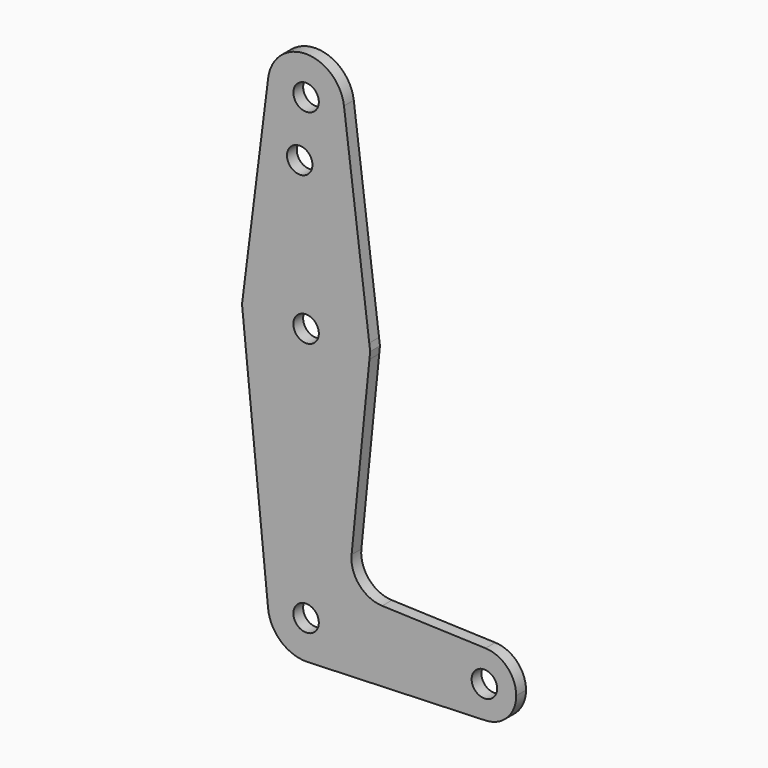
from build123d import *

# Parameters (mm, degrees)
F0_R     = 3.175
F1_DEPTH = 3.048


with BuildPart() as f1:
    # F0 (on Front) → F1 (new body)
    with BuildSketch(Plane.XZ):
        with BuildLine():
            ThreePointArc((-9.4502929642, 115.490625), (-0.596483242, 104.7936951058), (9.525, 114.3))
            ThreePointArc((9.525, 114.3), (9.5063048942, 114.896483242), (9.4502929642, 115.490625))
            ThreePointArc((9.4502929642, 115.490625), (0, 123.825), (-9.4502929642, 115.490625))
        make_face()
        with Locations((0, 114.3)):
            Circle(F0_R, mode=Mode.SUBTRACT)
        with BuildLine():
            ThreePointArc((9.4502929642, 115.490625), (9.5063048942, 114.896483242), (9.525, 114.3))
            ThreePointArc((9.525, 114.3), (-0.596483242, 104.7936951058), (-9.4502929642, 115.490625))
            Line((-9.4502929642, 115.490625), (-15.7504882475, 65.4843752081))
            ThreePointArc((-15.7504882475, 65.4843752081), (-1.474e-07, 79.375), (15.7504882106, 65.4843755006))
            Line((15.7504882106, 65.4843755006), (9.4502929642, 115.490625))
        make_face()
        with Locations((-1.5875, 99.9906848222)):
            Circle(F0_R, mode=Mode.SUBTRACT)
        with BuildLine():
            Line((15.9751747256, 63.7009815757), (15.7504882106, 65.4843755006))
            ThreePointArc((15.7504882106, 65.4843755006), (15.8438414746, 64.4941389884), (15.875, 63.5))
            ThreePointArc((15.875, 63.5), (15.8550939086, 62.7052534046), (15.7954255558, 61.9124999177))
            Line((15.7954255558, 61.9124999177), (15.9751747256, 63.7009815757))
        make_face()
        with BuildLine():
            ThreePointArc((15.875, 63.5), (15.8438414746, 64.4941389884), (15.7504882106, 65.4843755006))
            ThreePointArc((15.7504882106, 65.4843755006), (-1.474e-07, 79.375), (-15.7504882475, 65.4843752081))
            ThreePointArc((-15.7504882475, 65.4843752081), (-15.8737438142, 63.6997055839), (-15.7954255625, 61.9124999847))
            ThreePointArc((-15.7954255625, 61.9124999847), (-3.37e-08, 47.625), (15.7954255558, 61.9124999177))
            ThreePointArc((15.7954255558, 61.9124999177), (15.8550939086, 62.7052534046), (15.875, 63.5))
        make_face()
        with Locations((0, 63.5)):
            Circle(F0_R, mode=Mode.SUBTRACT)
        with BuildLine():
            ThreePointArc((-15.7954255625, 61.9124999847), (-15.8737438142, 63.6997055839), (-15.7504882475, 65.4843752081))
            Line((-15.7504882475, 65.4843752081), (-15.9751747256, 63.7009815757))
            Line((-15.9751747256, 63.7009815757), (-15.7954255625, 61.9124999847))
        make_face()
        with BuildLine():
            ThreePointArc((15.7954255558, 61.9124999177), (-3.37e-08, 47.625), (-15.7954255625, 61.9124999847))
            Line((-15.7954255625, 61.9124999847), (-9.4772553384, -0.9525))
            ThreePointArc((-9.4772553384, -0.9525), (-0.4768479324, 9.5130563464), (9.525, 0))
            ThreePointArc((9.525, 0), (6.8544082857, -6.6138273378), (0.3401785714, -9.5189234444))
            Line((0.3401785714, -9.5189234444), (44.7334821429, -7.9324362036))
            ThreePointArc((44.7334821429, -7.9324362036), (36.5125, 0), (44.7334821429, 7.9324362036))
            Line((44.7334821429, 7.9324362036), (18.9676000005, 8.8532337108))
            ThreePointArc((18.9676000005, 8.8532337108), (13.2611998974, 11.5713591498), (11.3411865923, 17.5933818124))
            Line((11.3411865923, 17.5933818124), (15.7954255558, 61.9124999177))
        make_face()
        with BuildLine():
            ThreePointArc((9.525, 0), (-0.4768479324, 9.5130563464), (-9.4772553384, -0.9525))
            ThreePointArc((-9.4772553384, -0.9525), (-6.2623833816, -7.1769199091), (0.3401785714, -9.5189234444))
            ThreePointArc((0.3401785714, -9.5189234444), (6.8544082857, -6.6138273378), (9.525, 0))
        make_face()
        Circle(F0_R, mode=Mode.SUBTRACT)
        with BuildLine():
            ThreePointArc((44.7334821429, 7.9324362036), (36.5125, 0), (44.7334821429, -7.9324362036))
            ThreePointArc((44.7334821429, -7.9324362036), (50.1620069047, -5.5115227815), (52.3875, 0))
            ThreePointArc((52.3875, 0), (50.1620069047, 5.5115227815), (44.7334821429, 7.9324362036))
        make_face()
        with Locations((44.45, 0)):
            Circle(F0_R, mode=Mode.SUBTRACT)
    extrude(amount=F1_DEPTH)


solid = f1.part
